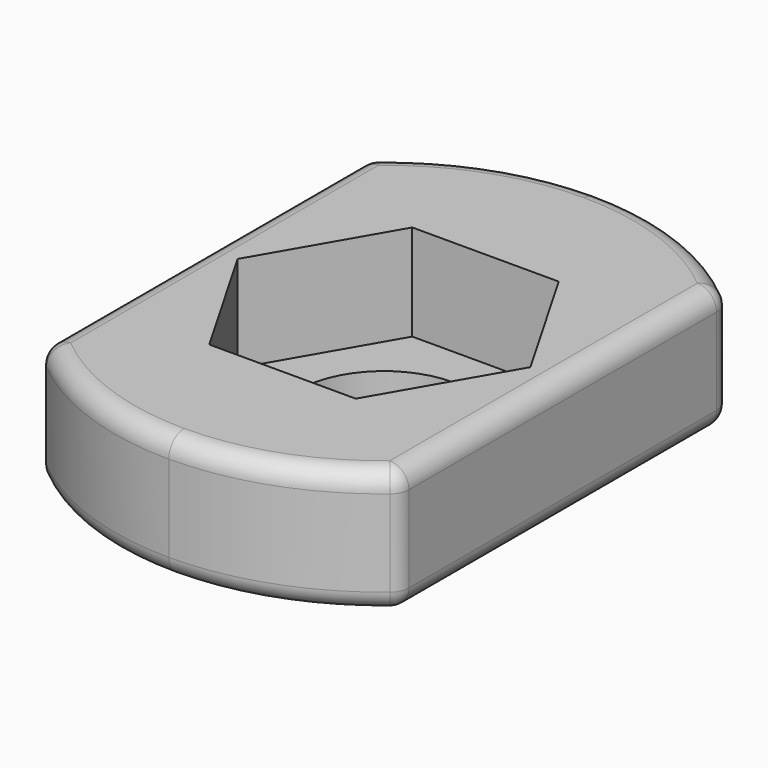
from build123d import *

# Parameters (mm, degrees)
PAD_DEPTH               = 6.5
POCKET_DEPTH            = 5
PAD_MIRRORED_2_DEPTH    = 6.5
POCKET_MIRRORED_2_DEPTH = 5
FILLET_R                = 1


with BuildPart() as part:
    # Sketch → Pad (new body)
    with BuildSketch(Plane.XY):
        with BuildLine():
            ThreePointArc((9.3, 10.464703), (4.974644, 13.086364), (0, 14))
            Line((0, 4.5), (0, 14))
            ThreePointArc((4.5, 0), (3.181981, 3.181981), (0, 4.5))
            Line((4.5, 0), (9.3, 0))
            Line((9.3, 0), (9.3, 10.464703))
        make_face()
    pad = extrude(amount=PAD_DEPTH)

    # Sketch001 → Pocket (cut)
    with BuildSketch(Plane.XY.offset(6.5)):
        Polygon((7.621024, 0), (3.810512, 6.6), (-3.810512, 6.6), (-7.621024, 0), (-3.810512, -6.6), (3.810512, -6.6), align=None)
    pocket = extrude(amount=-POCKET_DEPTH, mode=Mode.SUBTRACT)

    # Sketch Mirrored 2 → Pad Mirrored 2 (add)
    with BuildSketch(Plane(origin=(0, 0, 0), x_dir=(-1, 0, 0), z_dir=(0, 0, -1))):
        with BuildLine():
            ThreePointArc((9.3, 10.464703), (4.974644, 13.086364), (0, 14))
            Line((0, 4.5), (0, 14))
            ThreePointArc((4.5, 0), (3.181981, 3.181981), (0, 4.5))
            Line((4.5, 0), (9.3, 0))
            Line((9.3, 0), (9.3, 10.464703))
        make_face()
    pad_mirrored_2 = extrude(amount=-PAD_MIRRORED_2_DEPTH)

    # Sketch001 Mirrored 2 → Pocket Mirrored 2 (cut)
    with BuildSketch(Plane(origin=(0, 0, 6.5), x_dir=(-1, 0, 0), z_dir=(0, 0, -1))):
        Polygon((7.621024, 0), (3.810512, 6.6), (-3.810512, 6.6), (-7.621024, 0), (-3.810512, -6.6), (3.810512, -6.6), align=None)
    pocket_mirrored_2 = extrude(amount=POCKET_MIRRORED_2_DEPTH, mode=Mode.SUBTRACT)

    # Mirrored001: Pad, Pocket, Pad Mirrored 2, Pocket Mirrored 2 across Sketch H_Axis
    add(pad.mirror(Plane.ZX))
    add(pocket.mirror(Plane.ZX), mode=Mode.SUBTRACT)
    add(pad_mirrored_2.mirror(Plane.ZX))
    add(pocket_mirrored_2.mirror(Plane.ZX), mode=Mode.SUBTRACT)

    # Fillet
    fillet_edges = [part.edges().sort_by_distance(p)[0] for p in [
        (-9.3, -5.232351, 6.5),
        (9.3, -5.232351, 6.5),
        (4.974644, -13.086364, 6.5),
        (4.974644, 13.086364, 6.5),
        (4.974644, -13.086364, 0),
        (9.3, -5.232351, 0),
        (-9.3, -5.232351, 0),
        (-4.974644, 13.086364, 0),
        (9.3, -10.464703, 3.25),
        (-9.3, -10.464703, 3.25),
        (-9.3, 10.464703, 3.25),
        (9.3, 10.464703, 3.25),
    ]]
    fillet(fillet_edges, radius=FILLET_R)


solid = part.part
